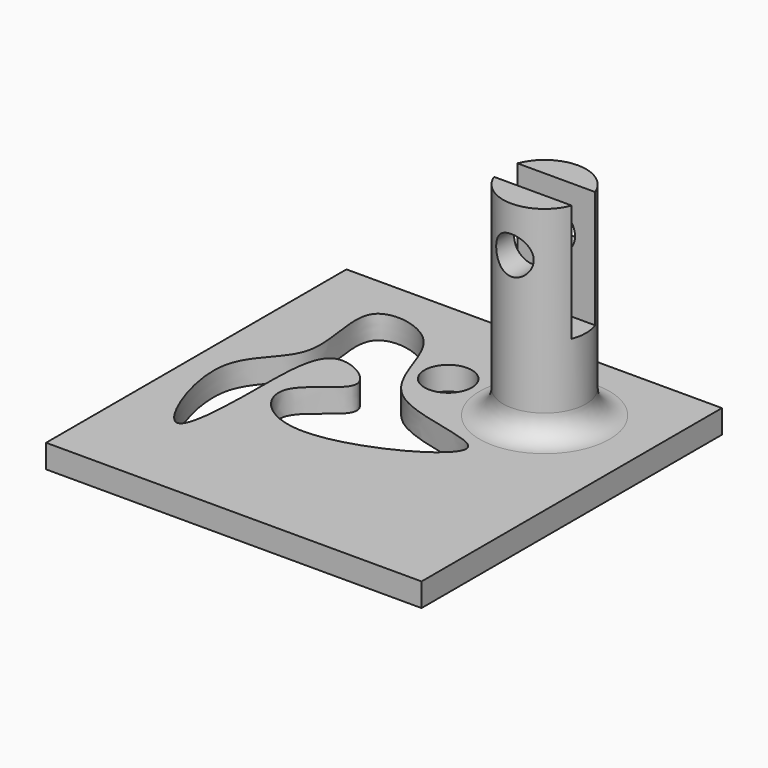
from build123d import *

# Parameters (mm, degrees)
F0_W           = 80
F0_H           = 80
F1_DEPTH       = 5
F3_D           = 10.0838
F5_DEPTH       = 11.1
F6_R           = 8.8451185093
F7_DEPTH       = 48.3
F8_R           = 5
F11_DEPTH      = 25
F13_R          = 4
F14_DEPTH      = 10
F14_DEPTH_BACK = 10


with BuildPart() as f1:
    # F0 (on Top) → F1 (new body)
    with BuildSketch(Plane.XY):
        Rectangle(F0_W, F0_H)
    extrude(amount=F1_DEPTH)

    # F3 (through all)
    with Locations(Plane(origin=(0, 0, 0), x_dir=(1, 0, 0), z_dir=(0, 0, -1))):
        with Locations((-2.14447896, -19.7768528014)):
            Hole(F3_D / 2)

    # F4 (on Top) → F5 (cut)
    with BuildSketch(Plane.XY):
        with BuildLine():
            add(Edge.make_bspline(
                [(-20.7299552858, 0), (-22.3361964653, -3.9212788796), (-11.8269698213, -17.1962706457), (30.7702738067, 5.7551783813), (-10.4966432744, 5.3617331656), (-9.3382276227, 30.5905958484), (-31.9225501561, 34.2229678052), (-22.128547402, 10.6151240105), (-39.8262416522, 3.4694046665), (-25.8676721629, -31.0397168962), (-24.3459701246, -3.9177720023), (-25.358185553, 18.9408810818), (-7.1086716419, 7.9727344157), (-19.262468864, 3.5825401472), (-20.7299552858, 0)],
                knots=[0, 0, 0, 0, 0.0759997618, 0.1853947478, 0.278592107, 0.3714576847, 0.442310058, 0.5254061894, 0.604602222, 0.6988759578, 0.7802330966, 0.868226964, 0.9305654593, 1, 1, 1, 1], degree=3))
        make_face()
    extrude(amount=F5_DEPTH, mode=Mode.SUBTRACT)

    # F6 (on Top) → F7 (join)
    with BuildSketch(Plane.XY):
        with Locations((18.585478887, 19.538577646)):
            Circle(F6_R)
    extrude(amount=F7_DEPTH)

    # F8
    f8_edges = [f1.edges().sort_by_distance(p)[0] for p in [
        (9.74036, 19.538578, 5),
    ]]
    fillet(f8_edges, radius=F8_R)

    # F10 (on offset) → F11 (cut)
    with BuildSketch(Plane.XY.offset(48.3)):
        with BuildLine():
            ThreePointArc((26.8620459032, 16.4185520262), (27.2872987412, 17.9528750676), (27.4305973963, 19.538577646))
            ThreePointArc((27.4305973963, 19.538577646), (27.2872987412, 21.1242802244), (26.8620459032, 22.6586032659))
            Line((26.8620459032, 22.6586032659), (10.3089118707, 22.6586032659))
            ThreePointArc((10.3089118707, 22.6586032659), (9.7403603777, 19.538577646), (10.3089118707, 16.4185520262))
            Line((10.3089118707, 16.4185520262), (26.8620459032, 16.4185520262))
        make_face()
    extrude(amount=-F11_DEPTH, mode=Mode.SUBTRACT)

    # F13 (on offset) → F14 (cut, two sides)
    with BuildSketch(Plane.XZ.offset(-19.8)) as f14_sk:
        with Locations((18.5854770243, 38.6006087065)):
            Circle(F13_R)
    extrude(amount=F14_DEPTH, mode=Mode.SUBTRACT)
    extrude(f14_sk.sketch, amount=-F14_DEPTH_BACK, mode=Mode.SUBTRACT)


solid = f1.part
